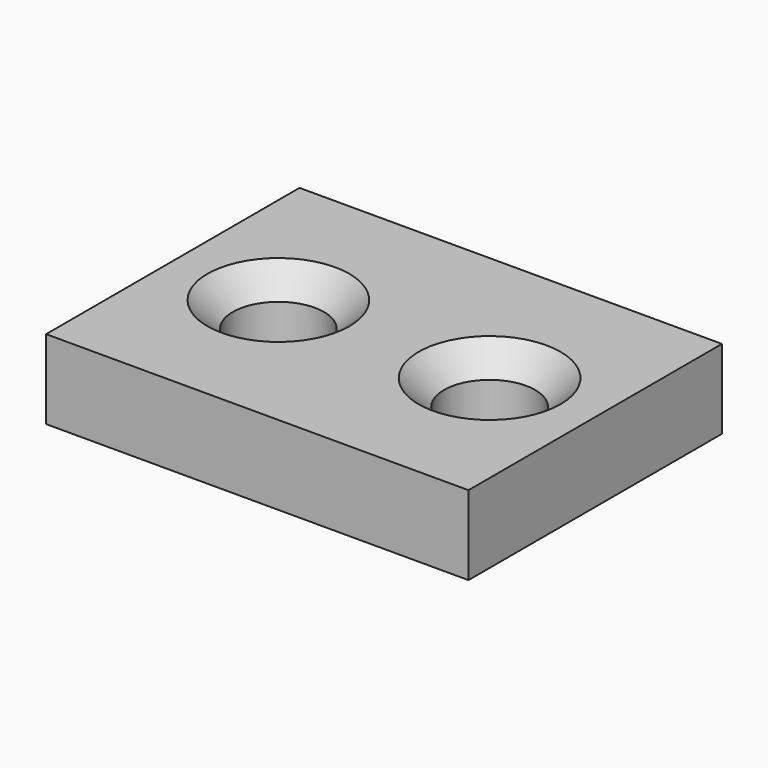
from build123d import *

# Parameters (mm, degrees)
F0_W     = 25.4
F0_H     = 19.05
F0_R     = 2.7432
F1_DEPTH = 4.7625
F2_SIZE  = 1.524


with BuildPart() as f1:
    # F0 (on Top) → F1 (new body)
    with BuildSketch(Plane.XY):
        Rectangle(F0_W, F0_H)
        with Locations((-6.35, 0)):
            Circle(F0_R, mode=Mode.SUBTRACT)
        with Locations((6.35, 0)):
            Circle(F0_R, mode=Mode.SUBTRACT)
    extrude(amount=F1_DEPTH)

    # F2
    f2_edges = [f1.edges().sort_by_distance(p)[0] for p in [
        (-9.0932, 0, 4.7625),
        (3.6068, 0, 4.7625),
    ]]
    chamfer(f2_edges, length=F2_SIZE)


solid = f1.part
